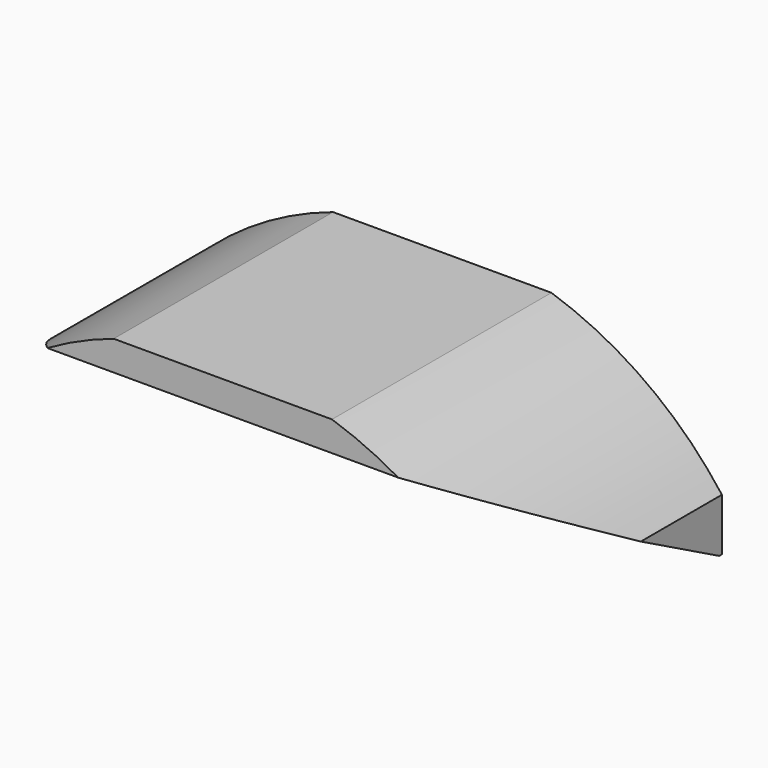
from build123d import *

# Parameters (mm, degrees)
BOX047_W               = 32
BOX047_H               = 17
BOX047_DEPTH           = 10
CHAMFER008016005_SIZE2 = 16.8
CHAMFER008016005_SIZE  = 9
CYLINDER047_R          = 20
CYLINDER047_DEPTH      = 44


with BuildPart() as chamfer008016005:
    # Box047 → Box047 (new body)
    with BuildSketch(Plane(origin=(-16, -38.61, 39), x_dir=(1, 0, 0), z_dir=(0, 0, 1))):
        with Locations((16, 8.5)):
            Rectangle(BOX047_W, BOX047_H)
    extrude(amount=BOX047_DEPTH)

    # Chamfer008016005
    chamfer008016005_edges = [chamfer008016005.edges().sort_by_distance(p)[0] for p in [
        (0, -38.61, 39),
    ]]
    chamfer008016005_side = chamfer008016005.faces().sort_by_distance((0, -38.61, 44))[0]
    chamfer(chamfer008016005_edges, length=CHAMFER008016005_SIZE, length2=CHAMFER008016005_SIZE2, reference=chamfer008016005_side)


with BuildPart() as air_router:
    # Cylinder047 → Cylinder047 (new body)
    with BuildSketch(Plane(origin=(0, 6.7, 30), x_dir=(1, 0, 0), z_dir=(0, -1, 0))):
        Circle(CYLINDER047_R)
    extrude(amount=CYLINDER047_DEPTH)

    # Common: intersect Chamfer008016005
    add(chamfer008016005.part, mode=Mode.INTERSECT)


solid = air_router.part
